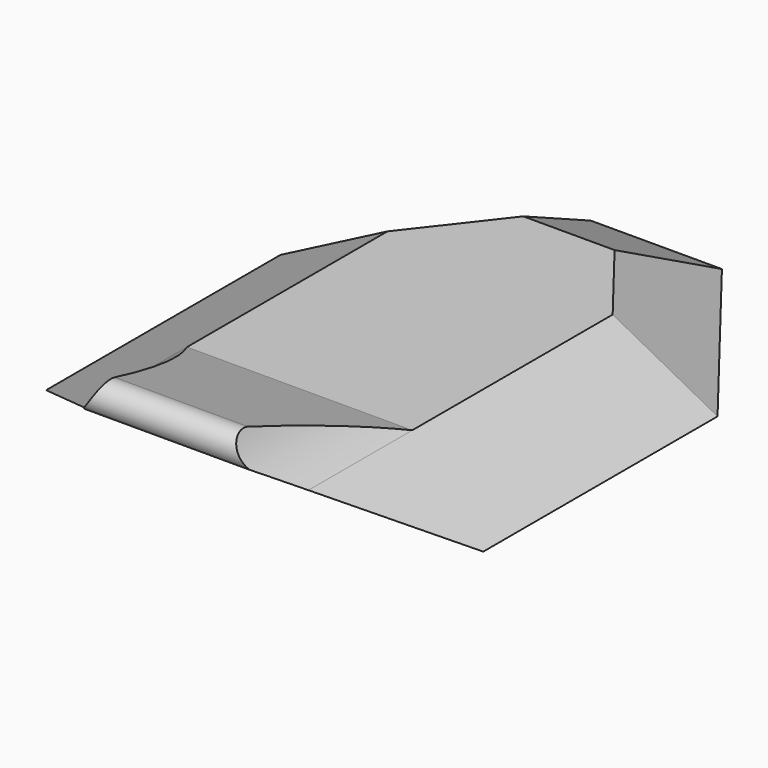
from build123d import *

# Parameters (mm, degrees)
F0_R      = 2.4511
F1_DEPTH  = 6.35
F2_DEPTH  = 3.175
F4_DEPTH  = 22.225
F10_W     = 56.74121622
F10_H     = 63.8059750199
F11_DEPTH = 25.4
F16_W     = 82.6793257147
F16_H     = 72.7323014289
F17_DEPTH = 25.4
F19_DEPTH = 50.8
F20_DEPTH = 25.4


with BuildPart() as f1:
    # F0 (on Right) → F1 (new body)
    with BuildSketch(Plane.YZ):
        Circle(F0_R)
    extrude(amount=F1_DEPTH)

    # F0 (on Right) → F2 (join)
    with BuildSketch(Plane.YZ):
        with BuildLine():
            ThreePointArc((-2.7727080887, -2.2264828441), (1.1801241538, -3.3544661247), (3.556, 0))
            ThreePointArc((3.556, 0), (-1.1801241538, 3.3544661247), (-2.7727080887, -2.2264828441))
        make_face()
        Circle(F0_R, mode=Mode.SUBTRACT)
        with BuildLine():
            ThreePointArc((-2.7727080887, -2.2264828441), (-1.1801241538, 3.3544661247), (3.556, 0))
            Line((3.556, 0), (3.556, 3.81))
            Line((3.556, 3.81), (-9.144, 10.16))
            Line((-9.144, 10.16), (-48.26, 10.16))
            Line((-48.26, 10.16), (-65.4478720941, 15.7807023171))
            ThreePointArc((-65.4478720941, 15.7807023171), (-67.5825080121, 15.0880015075), (-67.5765277328, 12.843793596))
            Line((-67.5765277328, 12.843793596), (-53.34, 3.81))
            Line((-53.34, 3.81), (-8.837933323, 3.81))
            ThreePointArc((-8.837933323, 3.81), (-7.7397247856, 3.5603139541), (-6.8574275453, 2.8603448886))
            Line((-6.8574275453, 2.8603448886), (-2.7727080887, -2.2264828441))
        make_face()
    extrude(amount=F2_DEPTH)

    # F3 (on face) → F4 (join)
    with BuildSketch(Plane.YZ.offset(3.175)):
        with BuildLine():
            Line((-8.837933323, 3.81), (3.556, 3.81))
            Line((3.556, 3.81), (-9.144, 10.16))
            Line((-9.144, 10.16), (-48.26, 10.16))
            Line((-48.26, 10.16), (-65.4478720941, 15.7807023171))
            ThreePointArc((-65.4478720941, 15.7807023171), (-67.5825080121, 15.0880015075), (-67.5765277328, 12.843793596))
            Line((-67.5765277328, 12.843793596), (-53.34, 3.81))
            Line((-53.34, 3.81), (-8.837933323, 3.81))
        make_face()
    extrude(amount=F4_DEPTH)

    # F10 (on 3pt) → F11 (cut)
    with BuildSketch(Plane(origin=(6.888273007, 0, 13.3567620635), x_dir=(0.8887708418, 0, -0.4583518198), z_dir=(0.4583518198, 0, 0.8887708418))):
        with Locations((15.902667772, -15.6232602894)):
            Rectangle(F10_W, F10_H)
    extrude(amount=F11_DEPTH, mode=Mode.SUBTRACT)

    # F16 (on 3pt) → F17 (cut)
    with BuildSketch(Plane(origin=(3.3452742707, 2.6018799884, 6.4229265998), x_dir=(0.9005619877, -0.1632211346, -0.4029230293), z_dir=(-0.4347276232, -0.3381214847, -0.8346770365))):
        with Locations((10.8647113666, 5.6677246466)):
            Rectangle(F16_W, F16_H)
    extrude(amount=-F17_DEPTH, mode=Mode.SUBTRACT)

    # F18 (on face) → F19 (cut)
    with BuildSketch(Plane(origin=(0, -47.5262477994, 0), x_dir=(-1, 0, 0), z_dir=(0, 1, 0))):
        with BuildLine():
            Line((-25.4, 10.16), (-13.0869806094, 10.16))
            ThreePointArc((-13.0869806094, 10.16), (-8.7936537349, 13.9337689195), (-6.7809289321, 19.2838087678))
            Line((-6.7809289321, 19.2838087678), (-25.4, 19.48883757))
            Line((-25.4, 19.48883757), (-25.4, 10.16))
        make_face()
    extrude(amount=-F19_DEPTH, mode=Mode.SUBTRACT)

    # F20 (cut): a face of the model
    f20_faces = [f1.faces().sort_by_distance(p)[0] for p in [
        (21.2956602031, -47.5262477994, 8.0433333333),
    ]]
    extrude(f20_faces, amount=-F20_DEPTH, mode=Mode.SUBTRACT)

    # F21: F1 across plane


with BuildPart() as f1_1:
    add(f1.part)
    add(f1.part.mirror(Plane.YZ))


solid = f1_1.part
